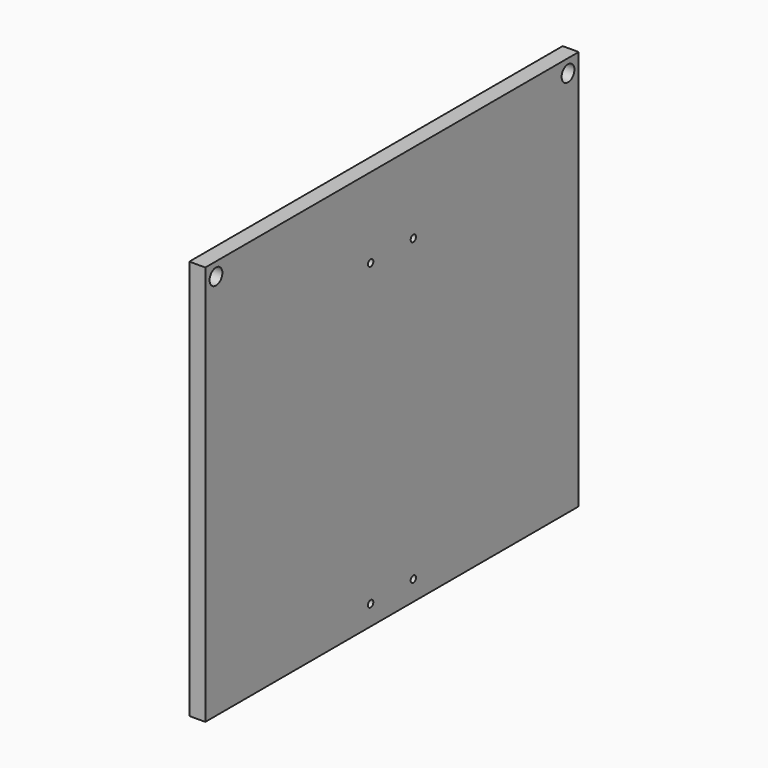
from build123d import *

# Parameters (mm, degrees)
F0_W     = 350
F0_H     = 300
F0_R     = 2.5
F0_R_2   = 6
F1_DEPTH = 12


with BuildPart() as f1:
    # F0 (on Right) → F1 (new body)
    with BuildSketch(Plane.YZ):
        with Locations((0, 150)):
            Rectangle(F0_W, F0_H)
        with Locations((-20, 15)):
            Circle(F0_R, mode=Mode.SUBTRACT)
        with Locations((20, 15)):
            Circle(F0_R, mode=Mode.SUBTRACT)
        with Locations((-165, 290)):
            Circle(F0_R_2, mode=Mode.SUBTRACT)
        with Locations((-20, 240)):
            Circle(F0_R, mode=Mode.SUBTRACT)
        with Locations((20, 240)):
            Circle(F0_R, mode=Mode.SUBTRACT)
        with Locations((165, 290)):
            Circle(F0_R_2, mode=Mode.SUBTRACT)
    extrude(amount=F1_DEPTH)


solid = f1.part
